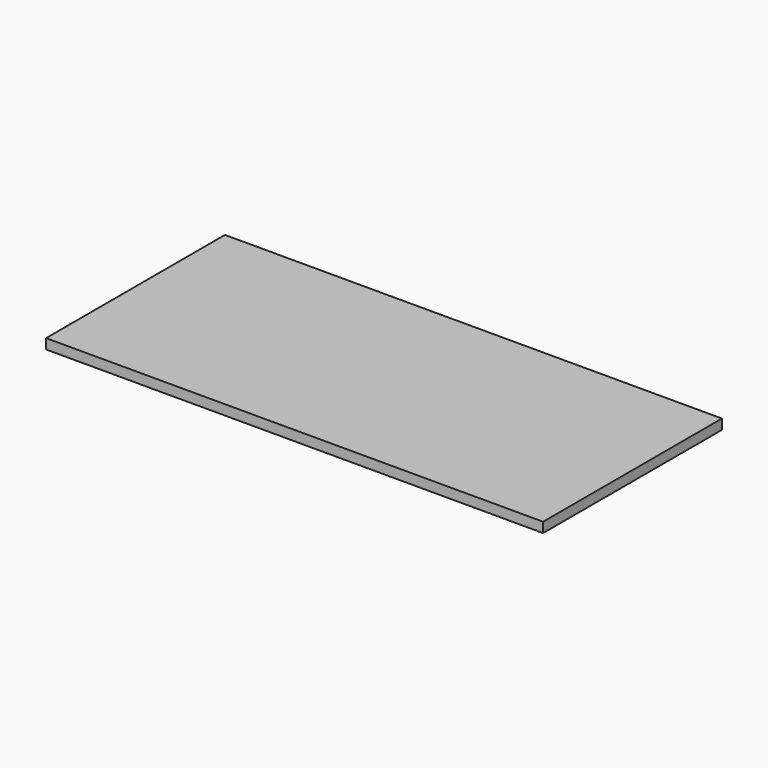
from build123d import *

# Parameters (mm, degrees)
SKETCH_W  = 107.315
SKETCH_H  = 48.26
PAD_DEPTH = 2.159


with BuildPart() as part:
    # Sketch → Pad (new body)
    with BuildSketch(Plane.XY):
        Rectangle(SKETCH_W, SKETCH_H)
    extrude(amount=PAD_DEPTH)


solid = part.part
